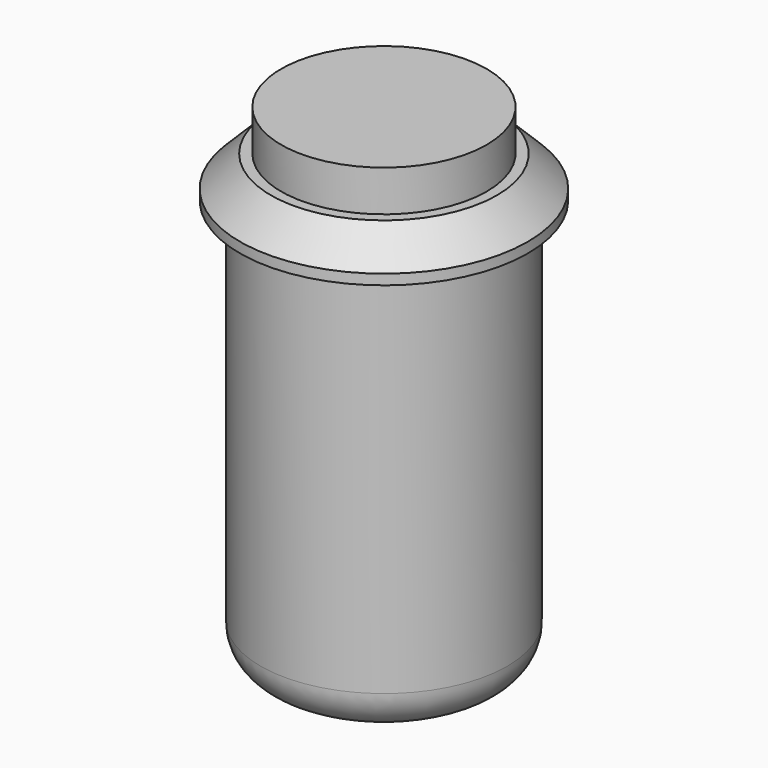
from build123d import *

# Parameters (mm, degrees)
SKETCH_R     = 6
PAD_DEPTH    = 20
SKETCH001_R  = 7
PAD001_DEPTH = 2
CHAMFER_SIZE = 1.5
SKETCH002_R  = 5
PAD002_DEPTH = 2
FILLET_R     = 2


with BuildPart() as part:
    # Sketch → Pad (new body)
    with BuildSketch(Plane.XY):
        Circle(SKETCH_R)
    extrude(amount=PAD_DEPTH)

    # Sketch001 (on Face3 of Pad) → Pad001 (join)
    with BuildSketch(Plane.XY.offset(20)):
        Circle(SKETCH001_R)
    extrude(amount=PAD001_DEPTH)

    # Chamfer
    chamfer_edges = [part.edges().sort_by_distance(p)[0] for p in [
        (-7, 0, 22),
    ]]
    chamfer(chamfer_edges, length=CHAMFER_SIZE)

    # Sketch002 (on Face4 of Chamfer) → Pad002 (join)
    with BuildSketch(Plane.XY.offset(22)):
        Circle(SKETCH002_R)
    extrude(amount=PAD002_DEPTH)

    # Fillet
    fillet_edges = [part.edges().sort_by_distance(p)[0] for p in [
        (-6, 0, 0),
    ]]
    fillet(fillet_edges, radius=FILLET_R)


solid = part.part
